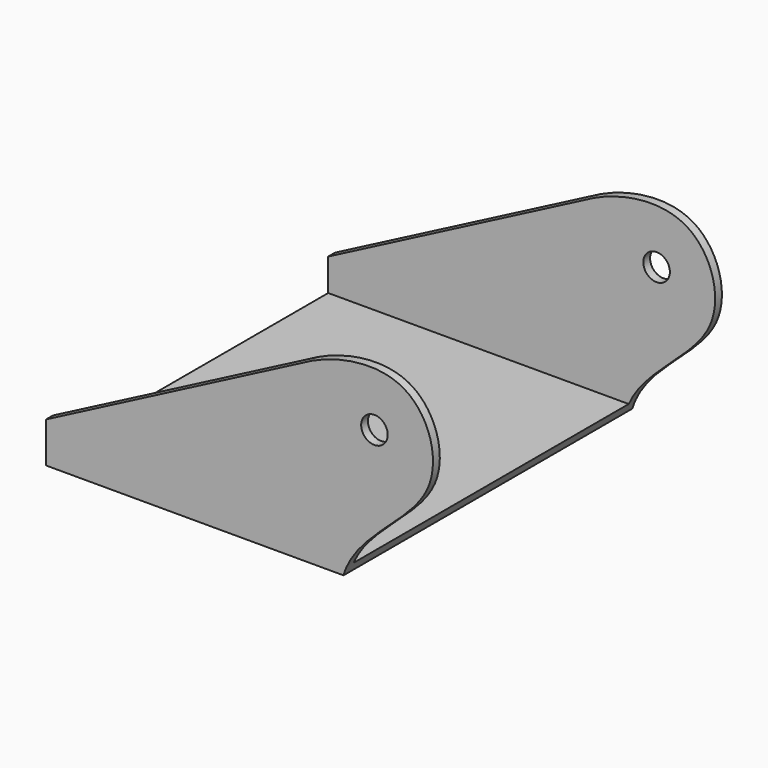
from build123d import *

# Parameters (mm, degrees)
F0_R     = 7.9375
F1_DEPTH = 215.9
F2_W     = 205.74
F2_H     = 145.3107850603
F3_DEPTH = 254


with BuildPart() as f1:
    # F0 (on Front) → F1 (new body)
    with BuildSketch(Plane.XZ):
        with BuildLine():
            Line((0, 0), (177.8, 0))
            add(Edge.make_bspline(
                [(158.7847620249, 106.745287776), (176.2469464706, 115.0805292065), (222.0968713413, 122.8921519156), (244.1458874441, 51.9036420926), (185.1385386718, 25.4228697783), (177.8, 0)],
                knots=[0, 0, 0, 0, 0.3201266951, 0.6191123806, 1, 1, 1, 1], degree=3))
            Line((158.7847620249, 106.745287776), (0, 24.2584337271))
            Line((0, 24.2584337271), (0, 0))
        make_face()
        with Locations((196.2973177433, 82.55)):
            Circle(F0_R, mode=Mode.SUBTRACT)
    extrude(amount=F1_DEPTH)

    # F2 (on Right) → F3 (cut, symmetric)
    with BuildSketch(Plane.YZ):
        with Locations((-107.95, 77.7353925301)):
            Rectangle(F2_W, F2_H)
    extrude(amount=F3_DEPTH, both=True, mode=Mode.SUBTRACT)


solid = f1.part
